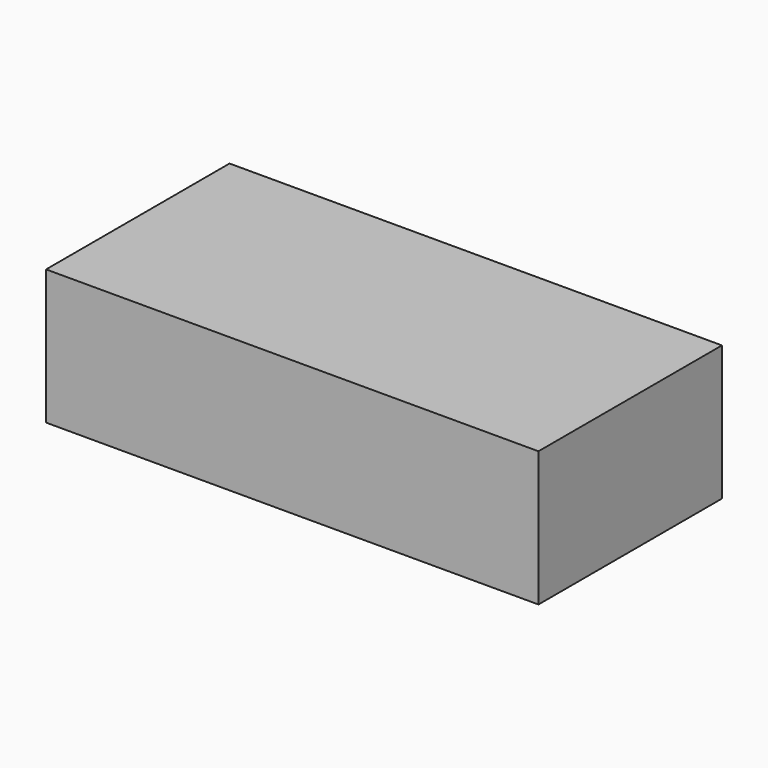
from build123d import *

# Parameters (mm, degrees)
SKETCH_W  = 7.3
SKETCH_H  = 3.4
PAD_DEPTH = 2


with BuildPart() as part:
    # Sketch → Pad (new body)
    with BuildSketch(Plane.XY):
        with Locations((0, 1.7)):
            Rectangle(SKETCH_W, SKETCH_H)
    extrude(amount=PAD_DEPTH)


solid = part.part
